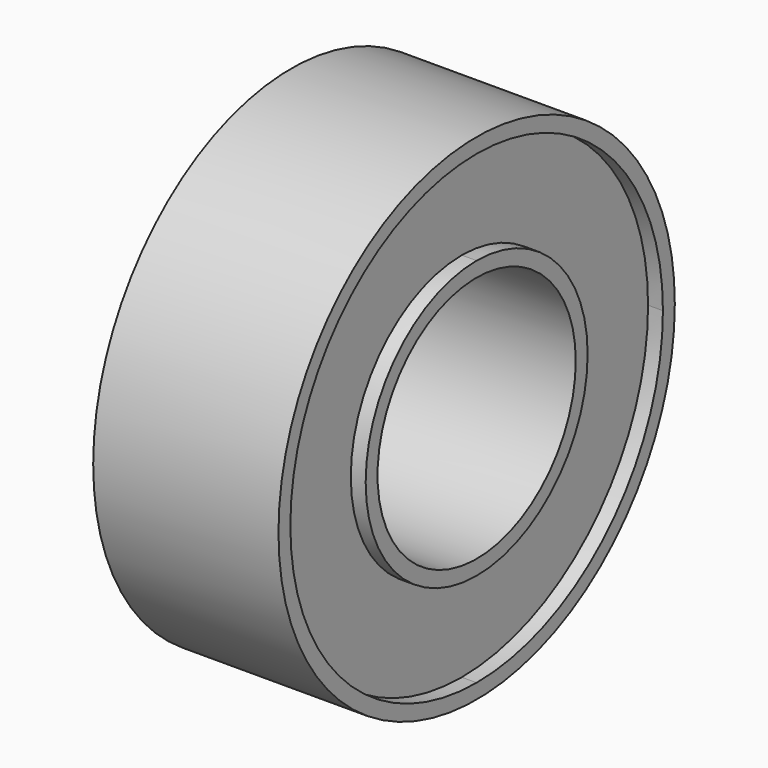
from build123d import *

# Parameters (mm, degrees)
F0_R     = 6.35
F1_DEPTH = 4.7498
F2_R     = 3.175
F3_DEPTH = 25.4
F5_DEPTH = 0.381
F7_DEPTH = 0.381


with BuildPart() as f1:
    # F0 (on Right) → F1 (new body)
    with BuildSketch(Plane.YZ):
        Circle(F0_R)
    extrude(amount=F1_DEPTH)

    # F2 (on face) → F3 (cut)
    with BuildSketch(Plane.YZ.offset(4.7498)):
        Circle(F2_R)
    extrude(amount=-F3_DEPTH, mode=Mode.SUBTRACT)

    # F4 (on face) → F5 (cut)
    with BuildSketch(Plane(origin=(0, 0, 0), x_dir=(0, -1, 0), z_dir=(-1, 0, 0))):
        with BuildLine():
            ThreePointArc((0, -5.969), (4.22072, -4.22072), (5.969, 0))
            ThreePointArc((5.969, 0), (4.22072, 4.22072), (0, 5.969))
            ThreePointArc((0, 5.969), (-5.969, 0), (0, -5.969))
        make_face()
        with BuildLine():
            ThreePointArc((0, 3.556), (2.514472, 2.514472), (3.556, 0))
            ThreePointArc((3.556, 0), (2.514472, -2.514472), (0, -3.556))
            ThreePointArc((0, -3.556), (-3.556, 0), (0, 3.556))
        make_face(mode=Mode.SUBTRACT)
    extrude(amount=-F5_DEPTH, mode=Mode.SUBTRACT)

    # F6 (on face) → F7 (cut)
    with BuildSketch(Plane.YZ.offset(4.7498)):
        with BuildLine():
            ThreePointArc((0, -5.969), (4.22072, -4.22072), (5.969, 0))
            ThreePointArc((5.969, 0), (4.22072, 4.22072), (0, 5.969))
            ThreePointArc((0, 5.969), (-5.969, 0), (0, -5.969))
        make_face()
        with BuildLine():
            ThreePointArc((0, 3.556), (2.514472, 2.514472), (3.556, 0))
            ThreePointArc((3.556, 0), (2.514472, -2.514472), (0, -3.556))
            ThreePointArc((0, -3.556), (-3.556, 0), (0, 3.556))
        make_face(mode=Mode.SUBTRACT)
    extrude(amount=-F7_DEPTH, mode=Mode.SUBTRACT)


solid = f1.part
